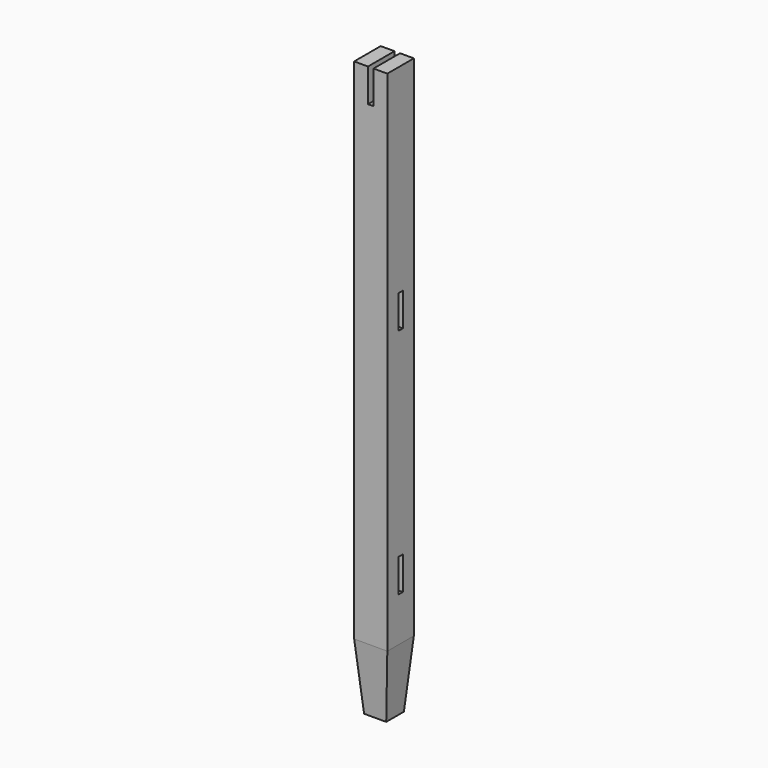
from build123d import *

# Parameters (mm, degrees)
F1_DEPTH = 38.1
F2_SIZE2 = 76.2
F2_SIZE  = 6.35
F3_W     = 6.35
F3_H     = 38.1
F4_DEPTH = 38.101


with BuildPart() as f1:
    # F0 (on Front) → F1 (new body)
    with BuildSketch(Plane.XZ):
        Polygon((0, 660.4), (0, 0), (38.1, 0), (38.1, 660.4), (22.225, 660.4), (22.225, 622.3), (15.875, 622.3), (15.875, 660.4), align=None)
    extrude(amount=F1_DEPTH)

    # F2
    f2_edges = [f1.edges().sort_by_distance(p)[0] for p in [
        (19.05, -38.1, 0),
        (38.1, -19.05, 0),
        (19.05, 0, 0),
        (0, -19.05, 0),
    ]]
    f2_side = f1.faces().sort_by_distance((19.05, -19.05, 0))[0]
    chamfer(f2_edges, length=F2_SIZE, length2=F2_SIZE2, reference=f2_side)

    # F3 (on face) → F4 (cut, through all)
    with BuildSketch(Plane.YZ.offset(38.1)):
        with Locations((-19.05, 412.75)):
            Rectangle(F3_W, F3_H)
        with Locations((-19.05, 146.05)):
            Rectangle(F3_W, F3_H)
    extrude(amount=-F4_DEPTH, mode=Mode.SUBTRACT)


solid = f1.part
